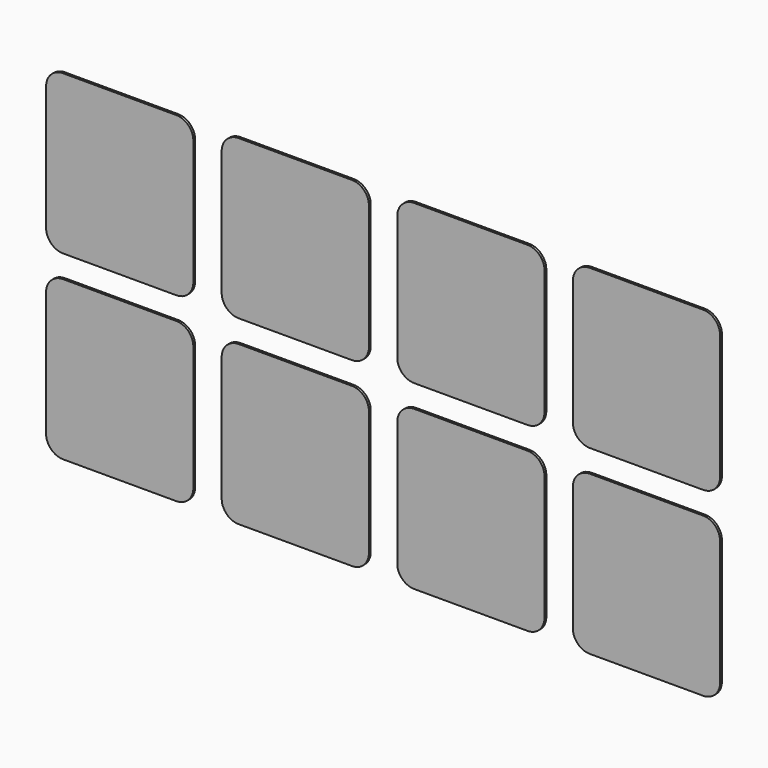
from build123d import *

# Parameters (mm, degrees)
F1_DEPTH = 0.2


with BuildPart() as f1:
    # F0 (on Front) → F1 (new body)
    with BuildSketch(Plane.XZ):
        with BuildLine():
            ThreePointArc((0, 1.5), (0.43934, 0.43934), (1.5, 0))
            Line((1.5, 0), (11.5, 0))
            ThreePointArc((11.5, 0), (12.56066, 0.43934), (13, 1.5))
            Line((13, 1.5), (13, 12.5))
            ThreePointArc((13, 12.5), (12.56066, 13.56066), (11.5, 14))
            Line((11.5, 14), (1.5, 14))
            ThreePointArc((1.5, 14), (0.43934, 13.56066), (0, 12.5))
            Line((0, 12.5), (0, 1.5))
        make_face()
        with BuildLine():
            ThreePointArc((11.5, 16), (12.56066, 16.43934), (13, 17.5))
            Line((13, 17.5), (13, 28.5))
            ThreePointArc((13, 28.5), (12.56066, 29.56066), (11.5, 30))
            Line((11.5, 30), (1.5, 30))
            ThreePointArc((1.5, 30), (0.43934, 29.56066), (0, 28.5))
            Line((0, 28.5), (0, 17.5))
            ThreePointArc((0, 17.5), (0.43934, 16.43934), (1.5, 16))
            Line((1.5, 16), (11.5, 16))
        make_face()
        with BuildLine():
            ThreePointArc((27, 0), (28.06066, 0.43934), (28.5, 1.5))
            Line((28.5, 1.5), (28.5, 12.5))
            ThreePointArc((28.5, 12.5), (28.06066, 13.56066), (27, 14))
            Line((27, 14), (17, 14))
            ThreePointArc((17, 14), (15.93934, 13.56066), (15.5, 12.5))
            Line((15.5, 12.5), (15.5, 1.5))
            ThreePointArc((15.5, 1.5), (15.93934, 0.43934), (17, 0))
            Line((17, 0), (27, 0))
        make_face()
        with BuildLine():
            ThreePointArc((27, 16), (28.06066, 16.43934), (28.5, 17.5))
            Line((28.5, 17.5), (28.5, 28.5))
            ThreePointArc((28.5, 28.5), (28.06066, 29.56066), (27, 30))
            Line((27, 30), (17, 30))
            ThreePointArc((17, 30), (15.93934, 29.56066), (15.5, 28.5))
            Line((15.5, 28.5), (15.5, 17.5))
            ThreePointArc((15.5, 17.5), (15.93934, 16.43934), (17, 16))
            Line((17, 16), (27, 16))
        make_face()
        with BuildLine():
            ThreePointArc((42.5, 0), (43.56066, 0.43934), (44, 1.5))
            Line((44, 1.5), (44, 12.5))
            ThreePointArc((44, 12.5), (43.56066, 13.56066), (42.5, 14))
            Line((42.5, 14), (32.5, 14))
            ThreePointArc((32.5, 14), (31.43934, 13.56066), (31, 12.5))
            Line((31, 12.5), (31, 1.5))
            ThreePointArc((31, 1.5), (31.43934, 0.43934), (32.5, 0))
            Line((32.5, 0), (42.5, 0))
        make_face()
        with BuildLine():
            ThreePointArc((42.5, 16), (43.56066, 16.43934), (44, 17.5))
            Line((44, 17.5), (44, 28.5))
            ThreePointArc((44, 28.5), (43.56066, 29.56066), (42.5, 30))
            Line((42.5, 30), (32.5, 30))
            ThreePointArc((32.5, 30), (31.43934, 29.56066), (31, 28.5))
            Line((31, 28.5), (31, 17.5))
            ThreePointArc((31, 17.5), (31.43934, 16.43934), (32.5, 16))
            Line((32.5, 16), (42.5, 16))
        make_face()
        with BuildLine():
            ThreePointArc((58, 0), (59.06066, 0.43934), (59.5, 1.5))
            Line((59.5, 1.5), (59.5, 12.5))
            ThreePointArc((59.5, 12.5), (59.06066, 13.56066), (58, 14))
            Line((58, 14), (48, 14))
            ThreePointArc((48, 14), (46.93934, 13.56066), (46.5, 12.5))
            Line((46.5, 12.5), (46.5, 1.5))
            ThreePointArc((46.5, 1.5), (46.93934, 0.43934), (48, 0))
            Line((48, 0), (58, 0))
        make_face()
        with BuildLine():
            ThreePointArc((58, 16), (59.06066, 16.43934), (59.5, 17.5))
            Line((59.5, 17.5), (59.5, 28.5))
            ThreePointArc((59.5, 28.5), (59.06066, 29.56066), (58, 30))
            Line((58, 30), (48, 30))
            ThreePointArc((48, 30), (46.93934, 29.56066), (46.5, 28.5))
            Line((46.5, 28.5), (46.5, 17.5))
            ThreePointArc((46.5, 17.5), (46.93934, 16.43934), (48, 16))
            Line((48, 16), (58, 16))
        make_face()
    extrude(amount=F1_DEPTH)


solid = f1.part
